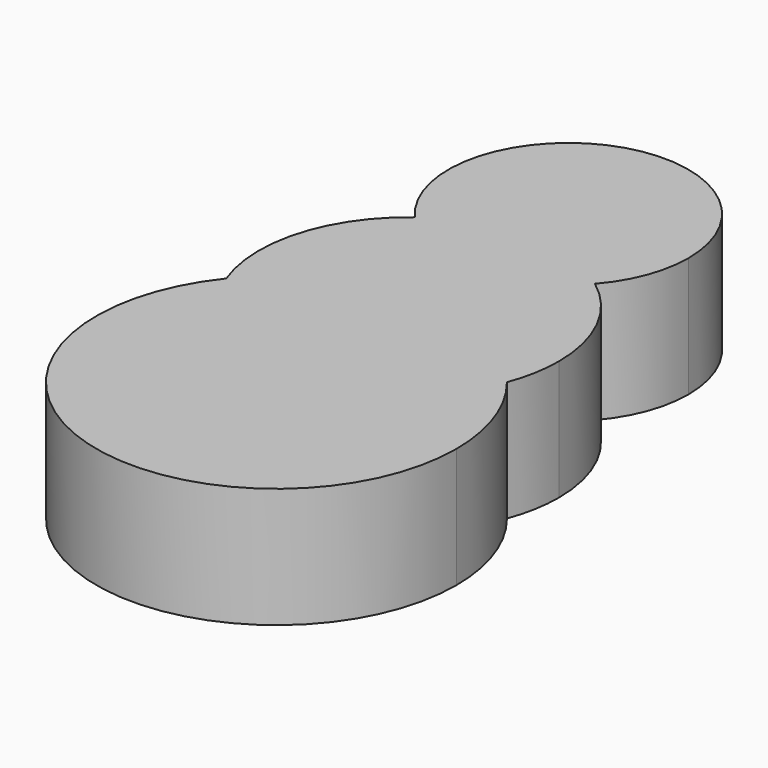
from build123d import *

# Parameters (mm, degrees)
F1_DEPTH = 25.4


with BuildPart() as f1:
    # F0 (on Top) → F1 (new body)
    with BuildSketch(Plane.XY):
        with BuildLine():
            ThreePointArc((-19.0518211515, 25.3986340344), (0, 31.75), (19.0518211515, 25.3986340344))
            ThreePointArc((19.0518211515, 25.3986340344), (23.7600111242, 33.2181213621), (25.4, 42.1970896423))
            ThreePointArc((25.4, 42.1970896423), (-8.9789682802, 65.9571007665), (-19.0518211515, 25.3986340344))
        make_face()
        with BuildLine():
            ThreePointArc((-19.0518211515, 25.3986340344), (0, 16.7970896423), (19.0518211515, 25.3986340344))
            ThreePointArc((19.0518211515, 25.3986340344), (0, 31.75), (-19.0518211515, 25.3986340344))
        make_face()
        with BuildLine():
            ThreePointArc((29.7067094769, -11.2059766222), (31.2350006074, -5.6953697909), (31.75, 0))
            ThreePointArc((31.75, 0), (28.398572337, 14.198013566), (19.0518211515, 25.3986340344))
            ThreePointArc((19.0518211515, 25.3986340344), (0, 16.7970896423), (-19.0518211515, 25.3986340344))
            ThreePointArc((-19.0518211515, 25.3986340344), (-30.4847987953, 8.8735304367), (-29.7067094769, -11.2059766222))
            ThreePointArc((-29.7067094769, -11.2059766222), (0, 3.0377577007), (29.7067094769, -11.2059766222))
        make_face()
        with BuildLine():
            ThreePointArc((-29.7067094769, -11.2059766222), (0, -31.75), (29.7067094769, -11.2059766222))
            ThreePointArc((29.7067094769, -11.2059766222), (0, 3.0377577007), (-29.7067094769, -11.2059766222))
        make_face()
        with BuildLine():
            ThreePointArc((38.1, -35.0622422993), (35.9404760059, -22.41739416), (29.7067094769, -11.2059766222))
            ThreePointArc((29.7067094769, -11.2059766222), (0, -31.75), (-29.7067094769, -11.2059766222))
            ThreePointArc((-29.7067094769, -11.2059766222), (-12.6448481393, -71.0027183053), (38.1, -35.0622422993))
        make_face()
    extrude(amount=F1_DEPTH)


solid = f1.part
